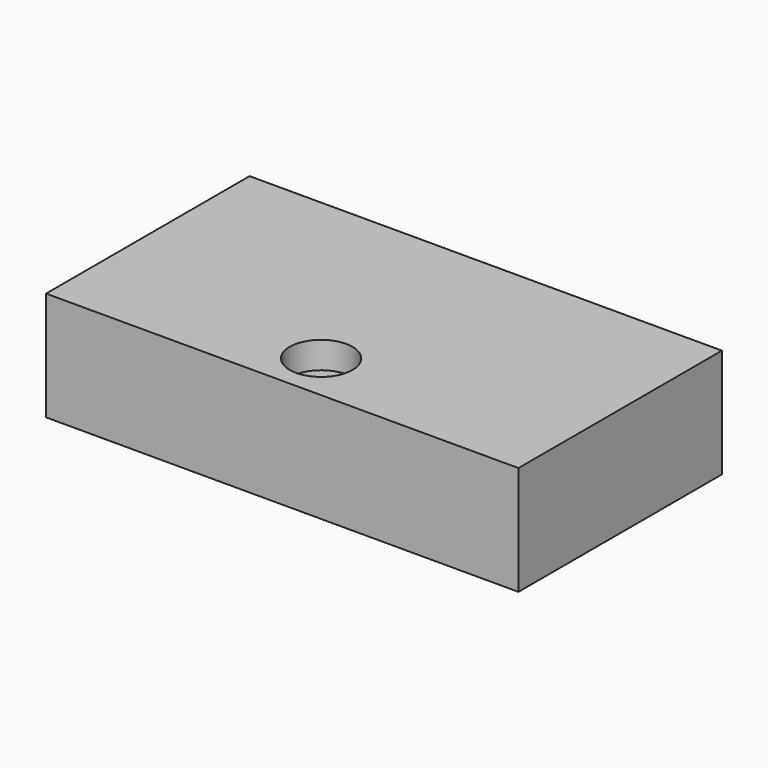
from build123d import *

# Parameters (mm, degrees)
F0_W     = 82.55
F0_H     = 44.45
F1_DEPTH = 19.05
F3_DEPTH = 41.402
F4_R     = 5.485136
F5_DEPTH = 6.35


with BuildPart() as f1:
    # F0 (on Top) → F1 (new body)
    with BuildSketch(Plane.XY):
        Rectangle(F0_W, F0_H)
    extrude(amount=F1_DEPTH)

    # F2 (on face) → F3 (cut)
    with BuildSketch(Plane(origin=(0, 22.225, 0), x_dir=(-1, 0, 0), z_dir=(0, 1, 0))):
        Polygon((36.041375, 14.287501), (-34.566533, 14.471854), (-34.566533, 3.963629), (36.041375, 3.963629), align=None)
    extrude(amount=-F3_DEPTH, mode=Mode.SUBTRACT)

    # F4 (on face) → F5 (cut)
    with BuildSketch(Plane.XY.offset(19.05)):
        with Locations((0, -13.734437)):
            Circle(F4_R)
    extrude(amount=-F5_DEPTH, mode=Mode.SUBTRACT)


solid = f1.part
